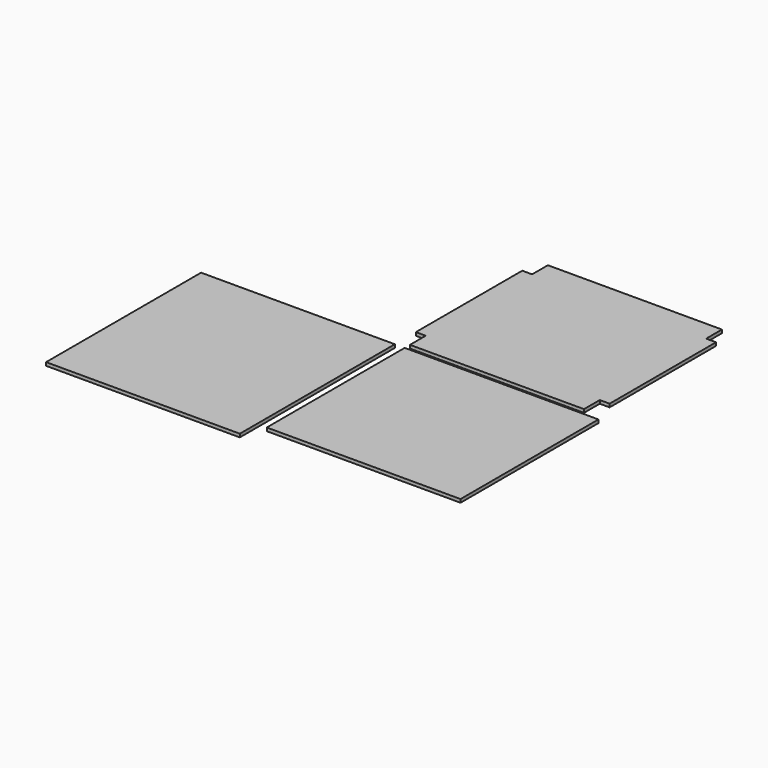
from build123d import *

# Parameters (mm, degrees)
F1_DEPTH = 6.35
F2_W     = 374.65
F2_H     = 333.375
F3_DEPTH = 6.35
F4_W     = 374.65
F4_H     = 374.65
F5_DEPTH = 6.35


with BuildPart() as f1:
    # F0 (on Top) → F1 (new body)
    with BuildSketch(Plane.XY):
        Polygon((0, 38.1), (0, 0), (336.55, 0), (336.55, 38.1), (355.6, 38.1), (355.6, 295.275), (336.55, 295.275), (336.55, 333.375), (0, 333.375), (0, 295.275), (-19.05, 295.275), (-19.05, 38.1), align=None)
    extrude(amount=F1_DEPTH)


with BuildPart() as f3:
    # F2 (on Top) → F3 (new body)
    with BuildSketch(Plane.XY):
        with Locations((187.325, -179.3875)):
            Rectangle(F2_W, F2_H)
    extrude(amount=F3_DEPTH)


with BuildPart() as f5:
    # F4 (on Top) → F5 (new body)
    with BuildSketch(Plane.XY):
        with Locations((-206.375, -200.025)):
            Rectangle(F4_W, F4_H)
    extrude(amount=F5_DEPTH)


solid = Compound([f1.part, f3.part, f5.part])
